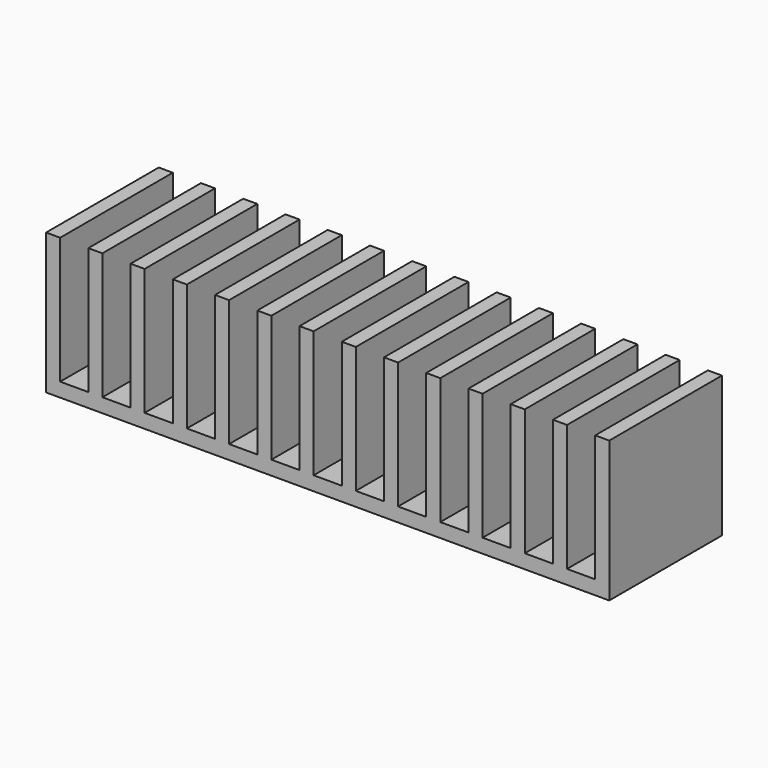
from build123d import *

# Parameters (mm, degrees)
F0_W     = 5
F0_H     = 50
F0_W_2   = 10
F1_DEPTH = 5
F2_DEPTH = 50


with BuildPart() as f1:
    # F0 (on Top) → F1 (new body)
    with BuildSketch(Plane.XY):
        with Locations((62.572898, -0.562236)):
            Rectangle(F0_W, F0_H)
        with Locations((40.072898, -0.562236)):
            Rectangle(F0_W_2, F0_H)
        with Locations((32.572898, -0.562236)):
            Rectangle(F0_W, F0_H)
        with Locations((-57.427102, -0.562236)):
            Rectangle(F0_W, F0_H)
        with Locations((2.572898, -0.562236)):
            Rectangle(F0_W, F0_H)
        with Locations((-94.927102, -0.562236)):
            Rectangle(F0_W_2, F0_H)
        with Locations((85.072898, -0.562236)):
            Rectangle(F0_W_2, F0_H)
        with Locations((77.572898, -0.562236)):
            Rectangle(F0_W, F0_H)
        with Locations((-4.927102, -0.562236)):
            Rectangle(F0_W_2, F0_H)
        with Locations((-34.927102, -0.562236)):
            Rectangle(F0_W_2, F0_H)
        with Locations((92.572898, -0.562236)):
            Rectangle(F0_W, F0_H)
        with Locations((-72.427102, -0.562236)):
            Rectangle(F0_W, F0_H)
        with Locations((70.072898, -0.562236)):
            Rectangle(F0_W_2, F0_H)
        with Locations((-42.427102, -0.562236)):
            Rectangle(F0_W, F0_H)
        with Locations((-49.927102, -0.562236)):
            Rectangle(F0_W_2, F0_H)
        with Locations((25.072898, -0.562236)):
            Rectangle(F0_W_2, F0_H)
        with Locations((10.072898, -0.562236)):
            Rectangle(F0_W_2, F0_H)
        with Locations((-64.927102, -0.562236)):
            Rectangle(F0_W_2, F0_H)
        with Locations((47.572898, -0.562236)):
            Rectangle(F0_W, F0_H)
        with Locations((-79.927102, -0.562236)):
            Rectangle(F0_W_2, F0_H)
        with Locations((-27.427102, -0.562236)):
            Rectangle(F0_W, F0_H)
        with Locations((-102.427102, -0.562236)):
            Rectangle(F0_W, F0_H)
        with Locations((-12.427102, -0.562236)):
            Rectangle(F0_W, F0_H)
        with Locations((-19.927102, -0.562236)):
            Rectangle(F0_W_2, F0_H)
        with Locations((-87.427102, -0.562236)):
            Rectangle(F0_W, F0_H)
        with Locations((55.072898, -0.562236)):
            Rectangle(F0_W_2, F0_H)
        with Locations((17.572898, -0.562236)):
            Rectangle(F0_W, F0_H)
    extrude(amount=F1_DEPTH)

    # F0 (on Top) → F2 (join)
    with BuildSketch(Plane.XY):
        with Locations((-102.427102, -0.562236)):
            Rectangle(F0_W, F0_H)
        with Locations((-87.427102, -0.562236)):
            Rectangle(F0_W, F0_H)
        with Locations((-72.427102, -0.562236)):
            Rectangle(F0_W, F0_H)
        with Locations((-57.427102, -0.562236)):
            Rectangle(F0_W, F0_H)
        with Locations((-42.427102, -0.562236)):
            Rectangle(F0_W, F0_H)
        with Locations((-27.427102, -0.562236)):
            Rectangle(F0_W, F0_H)
        with Locations((-12.427102, -0.562236)):
            Rectangle(F0_W, F0_H)
        with Locations((2.572898, -0.562236)):
            Rectangle(F0_W, F0_H)
        with Locations((17.572898, -0.562236)):
            Rectangle(F0_W, F0_H)
        with Locations((32.572898, -0.562236)):
            Rectangle(F0_W, F0_H)
        with Locations((47.572898, -0.562236)):
            Rectangle(F0_W, F0_H)
        with Locations((62.572898, -0.562236)):
            Rectangle(F0_W, F0_H)
        with Locations((77.572898, -0.562236)):
            Rectangle(F0_W, F0_H)
        with Locations((92.572898, -0.562236)):
            Rectangle(F0_W, F0_H)
    extrude(amount=F2_DEPTH)


solid = f1.part
